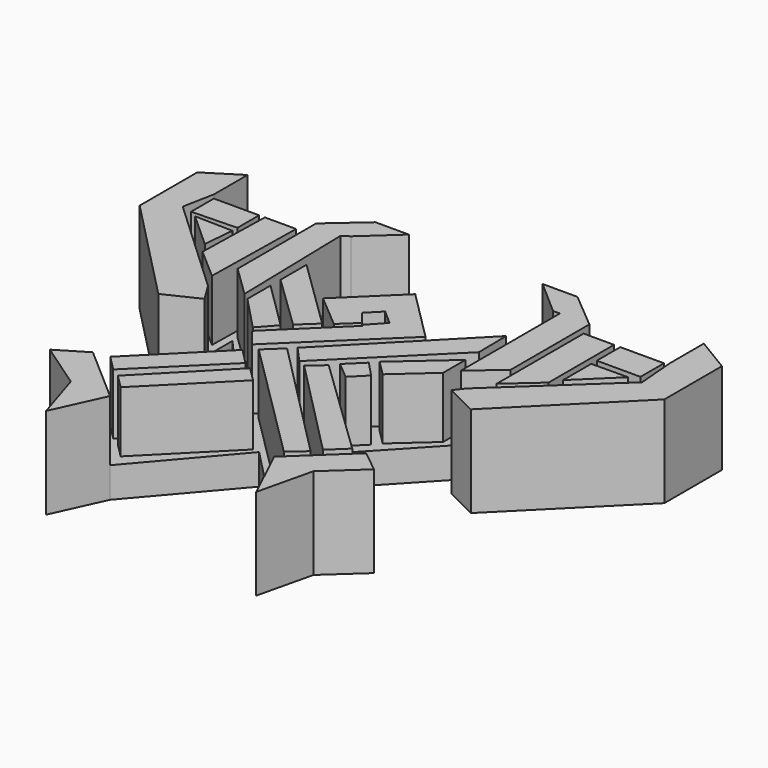
from build123d import *

# Parameters (mm, degrees)
F1_DEPTH = 12.7
F2_W     = 3.6453269422
F2_H     = 2.4501346052
F3_DEPTH = 5.08
F4_DEPTH = 5.08


with BuildPart() as f1:
    # F0 (on Top) → F1 (new body)
    with BuildSketch(Plane.XY):
        Polygon((6.5544429235, 37.8296226263), (6.5544429235, 41.3456484675), (3.76586942, 39.5876355469), (3.76586942, 33.586140722), (12.4953174964, 24.6142074466), (15.2838900685, 25.9478744119), (14.313952066, 27.5240242481), (14.313952066, 30.0701130182), (20.9822803736, 22.5530881435), (14.313952066, 15.521033667), (11.8891056627, 14.0661261976), (15.7688595355, 11.3987950608), (17.1025265008, 7.1553131565), (19.0424025059, 11.3987950608), (25.4682451487, 18.9158190042), (32.7427871525, 11.3987950608), (34.925147891, 6.791586522), (36.0163263977, 11.3987950608), (38.9261469245, 14.0661261976), (37.1075086296, 15.521033667), (30.0754550844, 22.5530881435), (37.1075086296, 30.0701130182), (37.1075086296, 27.5240242481), (35.8950868249, 25.9478744119), (38.5624170303, 24.6142074466), (47.5343503058, 33.586140722), (47.5343503058, 39.5876355469), (44.6245335042, 41.3456484675), (44.6245335042, 37.8296226263), (37.1075086296, 38.7995615602), (34.0764522552, 41.3456484675), (31.1666354537, 41.3456484675), (34.0764522552, 38.7995615602), (34.0764522552, 35.0410491228), (30.0754550844, 30.5550824851), (25.5894884467, 35.0410491228), (20.9822803736, 30.5550824851), (17.2237679362, 35.0410491228), (17.2237679362, 38.7995615602), (20.0123414397, 41.3456484675), (17.2237679362, 41.3456484675), (14.313952066, 38.7995615602), align=None)
        Polygon((24.5242901146, 30.8284908533), (25.5894884467, 31.9072976708), (26.8167555332, 30.8284908533), (25.5894884467, 29.5136924833), align=None, mode=Mode.SUBTRACT)
    extrude(amount=F1_DEPTH)

    # F2 (on face) → F3 (cut)
    with BuildSketch(Plane.XY.offset(12.7)):
        Polygon((7.0490693162, 37.8914509439), (6.5544429235, 37.8296226263), (6.0410341248, 35.2296121418), (14.313952066, 27.5240242481), (14.313952066, 30.0701130182), (20.9822803736, 22.5530881435), (14.313952066, 15.521033667), (19.0424025059, 11.3987950608), (25.4682451487, 18.9158190042), (32.7427871525, 11.3987950608), (37.1075086296, 15.521033667), (30.0754550844, 22.5530881435), (37.1075086296, 30.0701130182), (37.1075086296, 27.5240242481), (36.5012977272, 26.73594933), (44.8912195861, 34.5637351274), (44.6245335042, 37.8296226263), (37.1075086296, 38.7995615602), (37.1075086296, 30.5685326457), (34.6490368247, 28.4877605736), (34.6490368247, 30.5685326457), (34.6490368247, 38.7995615602), (34.0764522552, 38.7995615602), (34.0764522552, 35.0410491228), (30.0754550844, 30.5550824851), (29.8693068326, 30.761230737), (21.7151734978, 22.8682607412), (20.5283816904, 24.3646502495), (25.694264099, 29.3949842453), (25.5894884467, 29.5136924833), (25.4240528691, 29.7178933549), (24.0751728415, 28.4491963685), (21.2630781019, 30.8284908533), (20.9822803736, 30.5550824851), (17.2237679362, 35.0410491228), (17.2237679362, 38.7995615602), (16.6432019323, 38.4291112423), (16.8820619583, 28.1179565936), (14.313952066, 30.6153800339), (14.313952066, 38.7995615602), align=None)
        Polygon((15.5932606215, 15.7401643943), (21.7151734978, 21.8692570925), (23.0203711557, 20.550046149), (16.8623554934, 14.4574438554), align=None, mode=Mode.SUBTRACT)
        Polygon((17.6451402405, 13.9573783364), (23.711329326, 20.1660916209), (24.9279786679, 18.9555015123), (18.8057093955, 12.8025891205), align=None, mode=Mode.SUBTRACT)
        Polygon((32.7832475305, 12.346426025), (22.4977247417, 22.5807242095), (23.8481555134, 23.8528680056), (34.1030471027, 13.4878745303), align=None, mode=Mode.SUBTRACT)
        Polygon((26.2261033058, 22.6549040526), (27.4469424039, 23.696700111), (35.9935723245, 15.4675748199), (34.6024334431, 14.1477743164), align=None, mode=Mode.SUBTRACT)
        Polygon((17.4691583961, 27.6918299496), (17.4691583961, 30.1007553935), (21.482238546, 26.135975495), (20.2486850321, 24.7733257711), align=None, mode=Mode.SUBTRACT)
        Polygon((17.4691583961, 31.1430785805), (17.4691583961, 33.8531173766), (23.445142433, 28.0161090195), (22.0553781837, 26.7189964652), align=None, mode=Mode.SUBTRACT)
        Polygon((7.5238011777, 34.6592962742), (10.6979301199, 34.5851331949), (10.4632368311, 32.0025421679), align=None, mode=Mode.SUBTRACT)
        Polygon((6.9207791239, 35.0040383637), (6.9207791239, 37.3774655163), (10.6979301199, 37.3774655163), (10.6979301199, 35.1172611117), align=None, mode=Mode.SUBTRACT)
        Polygon((13.6304246262, 28.7970686331), (11.0295182094, 31.0556814075), (11.1747216433, 37.3774655163), (13.784497045, 37.3774655163), align=None, mode=Mode.SUBTRACT)
        Polygon((27.9130805284, 24.2891721427), (29.262598604, 25.6057772785), (30.5133741349, 24.2891721427), (29.3284300715, 23.1042280793), align=None, mode=Mode.SUBTRACT)
        Polygon((30.9950727969, 24.886559695), (29.7354832292, 26.1461511254), (33.9365452528, 29.8445243388), (33.9365452528, 27.5129415095), align=None, mode=Mode.SUBTRACT)
        Polygon((24.3253335357, 24.3550017476), (33.9036285877, 34.1307893395), (33.9365452528, 31.2342606485), (25.5894884467, 22.9456070811), align=None, mode=Mode.SUBTRACT)
        Polygon((37.6231558621, 30.7271517813), (37.6231558621, 37.5519581139), (40.1610732079, 37.5519581139), (40.1610732079, 30.7271517813), (37.6231558621, 28.4877605736), align=None, mode=Mode.SUBTRACT)
        Polygon((40.6824201345, 34.5267690718), (43.7329895794, 34.5558524132), (40.6824201345, 31.5891802311), align=None, mode=Mode.SUBTRACT)
        with Locations((42.5050836056, 36.3268908113)):
            Rectangle(F2_W, F2_H, mode=Mode.SUBTRACT)
    extrude(amount=-F3_DEPTH, mode=Mode.SUBTRACT)

    # F4 (cut): a face of the model
    f4_faces = [f1.faces().sort_by_distance(p)[0] for p in [
        (25.6298789879, 27.4747864978, 0),
    ]]
    extrude(f4_faces, amount=-F4_DEPTH, mode=Mode.SUBTRACT)


solid = f1.part
